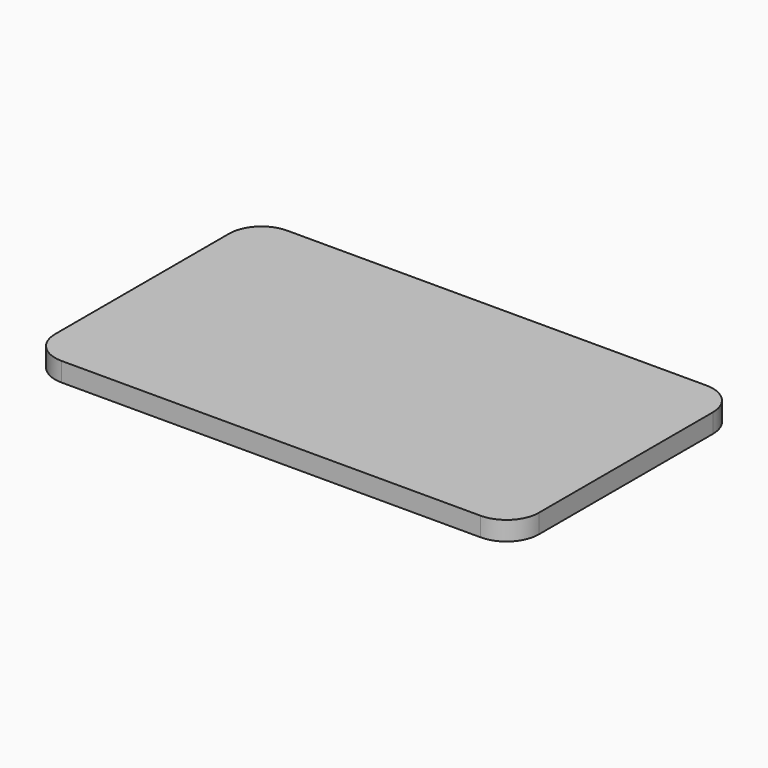
from build123d import *

# Parameters (mm, degrees)
F0_W     = 76.2
F0_H     = 44.45
F1_DEPTH = 3
F2_DEPTH = 3
F3_R     = 5.08
F4_W     = 42.3543415964
F4_H     = 1.6788681969
F5_DEPTH = 3


with BuildPart() as f1:
    # F0 (on Top) → F1 (new body)
    with BuildSketch(Plane.XY):
        Rectangle(F0_W, F0_H)
        with BuildLine():
            Line((-30.0455586378, -5.2290757074), (-30.0455586378, 5.0972730335))
            ThreePointArc((-30.0455586378, 5.0972730335), (-30.1515789958, 14.6432590947), (-21.8663889779, 9.9006104081))
            ThreePointArc((-21.8663889779, 9.9006104081), (-22.9155259968, 6.6695395757), (-25.6626866956, 4.6711363874))
            Line((-25.6626866956, 4.6711363874), (-25.6626866956, 1.9259689143))
            Line((-25.6626866956, 1.9259689143), (26.3650547713, 1.9259689143))
            Line((26.3650547713, 1.9259689143), (28.737584129, 1.9259689143))
            Line((28.737584129, 1.9259689143), (28.737584129, -2.0090183243))
            Line((28.737584129, -2.0090183243), (26.3650547713, -2.0090183243))
            Line((26.3650547713, -2.0090183243), (-25.6626866956, -2.0090183243))
            Line((-25.6626866956, -2.0090183243), (-25.6626866956, -4.8029390612))
            ThreePointArc((-25.6626866956, -4.8029390612), (-22.9155259968, -6.8013422496), (-21.8663889779, -10.0324130819))
            ThreePointArc((-21.8663889779, -10.0324130819), (-30.1515789958, -14.7750617685), (-30.0455586378, -5.2290757074))
        make_face(mode=Mode.SUBTRACT)
    extrude(amount=F1_DEPTH)

    # F0 (on Top) → F2 (join)
    with BuildSketch(Plane.XY):
        Polygon((26.3650547713, 1.9259689143), (-25.6626866956, 1.9259689143), (-25.6626866956, -2.0090183243), (26.3650547713, -2.0090183243), (28.737584129, -2.0090183243), (28.737584129, 1.9259689143), align=None)
        with BuildLine():
            ThreePointArc((-25.6626866956, -4.8029390612), (-26.5038656779, -4.6004655898), (-27.3663889779, -4.5324130819))
            ThreePointArc((-27.3663889779, -4.5324130819), (-28.7505212765, -4.7094272864), (-30.0455586378, -5.2290757074))
            ThreePointArc((-30.0455586378, -5.2290757074), (-30.1515789958, -14.7750617685), (-21.8663889779, -10.0324130819))
            ThreePointArc((-21.8663889779, -10.0324130819), (-22.9155259968, -6.8013422496), (-25.6626866956, -4.8029390612))
        make_face()
        with BuildLine():
            Line((-27.3663889779, -4.5324130819), (-27.3663889779, 4.4006104081))
            ThreePointArc((-27.3663889779, 4.4006104081), (-28.7505212765, 4.5776246125), (-30.0455586378, 5.0972730335))
            Line((-30.0455586378, 5.0972730335), (-30.0455586378, -5.2290757074))
            ThreePointArc((-30.0455586378, -5.2290757074), (-28.7505212765, -4.7094272864), (-27.3663889779, -4.5324130819))
        make_face()
        with BuildLine():
            ThreePointArc((-30.0455586378, 5.0972730335), (-28.7505212765, 4.5776246125), (-27.3663889779, 4.4006104081))
            ThreePointArc((-27.3663889779, 4.4006104081), (-26.5038656779, 4.468662916), (-25.6626866956, 4.6711363874))
            ThreePointArc((-25.6626866956, 4.6711363874), (-22.9155259968, 6.6695395757), (-21.8663889779, 9.9006104081))
            ThreePointArc((-21.8663889779, 9.9006104081), (-30.1515789958, 14.6432590947), (-30.0455586378, 5.0972730335))
        make_face()
        with BuildLine():
            ThreePointArc((-25.6626866956, 4.6711363874), (-26.5038656779, 4.468662916), (-27.3663889779, 4.4006104081))
            Line((-27.3663889779, 4.4006104081), (-27.3663889779, -4.5324130819))
            ThreePointArc((-27.3663889779, -4.5324130819), (-26.5038656779, -4.6004655898), (-25.6626866956, -4.8029390612))
            Line((-25.6626866956, -4.8029390612), (-25.6626866956, -2.0090183243))
            Line((-25.6626866956, -2.0090183243), (-25.6626866956, 1.9259689143))
            Line((-25.6626866956, 1.9259689143), (-25.6626866956, 4.6711363874))
        make_face()
    extrude(amount=F2_DEPTH)

    # F3
    f3_edges = [f1.edges().sort_by_distance(p)[0] for p in [
        (38.1, 22.225, 1.5),
        (38.1, -22.225, 1.5),
        (-38.1, -22.225, 1.5),
        (-38.1, 22.225, 1.5),
    ]]
    fillet(f3_edges, radius=F3_R)

    # F4 (on face) → F5 (join)
    with BuildSketch(Plane.XY):
        with Locations((-0.0403206795, -14.995015692)):
            Rectangle(F4_W, F4_H)
        with Locations((-0.0403206795, 14.995015692)):
            Rectangle(F4_W, F4_H)
    extrude(amount=-F5_DEPTH)


solid = f1.part
